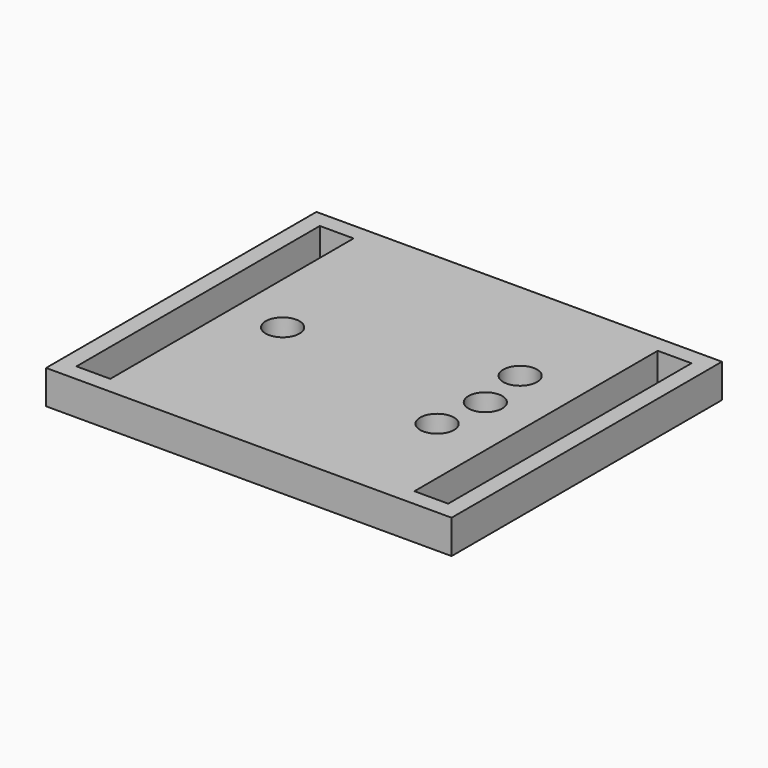
from build123d import *

# Parameters (mm, degrees)
F0_W     = 40
F0_H     = 50
F0_R     = 2.5
F0_W_2   = 10
F0_W_3   = 5
F0_H_2   = 45
F1_DEPTH = 5


with BuildPart() as f1:
    # F0 (on Top) → F1 (new body)
    with BuildSketch(Plane.XY):
        Rectangle(F0_W, F0_H)
        with Locations((14, -7.681146)):
            Circle(F0_R, mode=Mode.SUBTRACT)
        with Locations((-15, 0)):
            Circle(F0_R, mode=Mode.SUBTRACT)
        with Locations((14, 7.681146)):
            Circle(F0_R, mode=Mode.SUBTRACT)
        with Locations((15, 0)):
            Circle(F0_R, mode=Mode.SUBTRACT)
        with Locations((-25, 0)):
            Rectangle(F0_W_2, F0_H)
        with Locations((-25, 0)):
            Rectangle(F0_W_3, F0_H_2, mode=Mode.SUBTRACT)
        with Locations((25, 0)):
            Rectangle(F0_W_2, F0_H)
        with Locations((25, 0)):
            Rectangle(F0_W_3, F0_H_2, mode=Mode.SUBTRACT)
    extrude(amount=F1_DEPTH)


solid = f1.part
